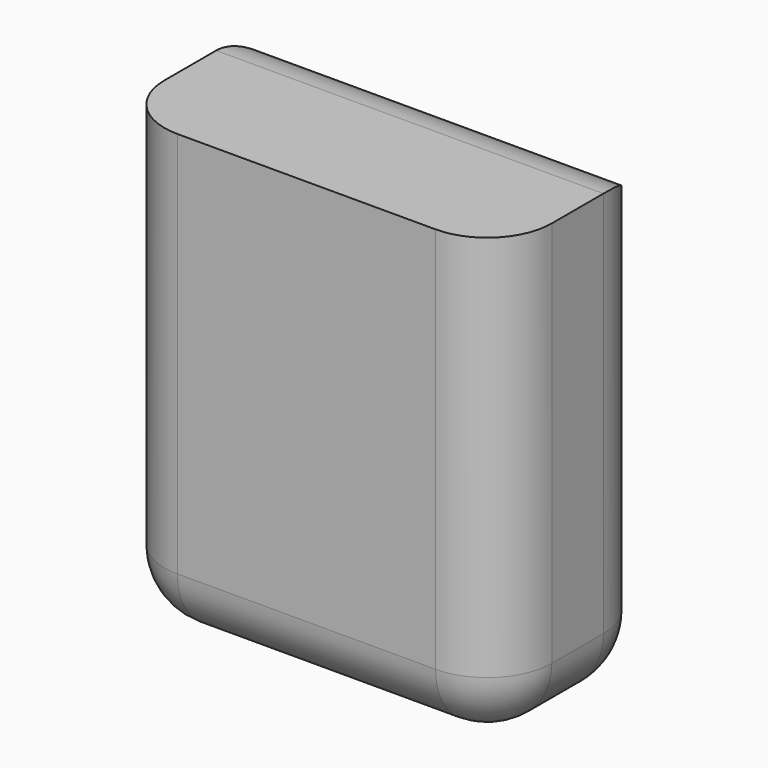
from build123d import *

# Parameters (mm, degrees)
F0_W     = 30
F0_H     = 35
F1_DEPTH = 15
F2_R     = 5


with BuildPart() as f1:
    # F0 (on Front) → F1 (new body)
    with BuildSketch(Plane.XZ):
        Rectangle(F0_W, F0_H)
    extrude(amount=F1_DEPTH)

    # F2
    f2_edges = [f1.edges().sort_by_distance(p)[0] for p in [
        (0, -15, -17.5),
        (0, 0, -17.5),
        (-15, -7.5, -17.5),
        (15, -7.5, -17.5),
        (15, -15, 0),
        (-15, -15, 0),
        (15, 0, 0),
        (0, 0, 17.5),
        (-15, 0, 0),
    ]]
    fillet(f2_edges, radius=F2_R)


solid = f1.part
